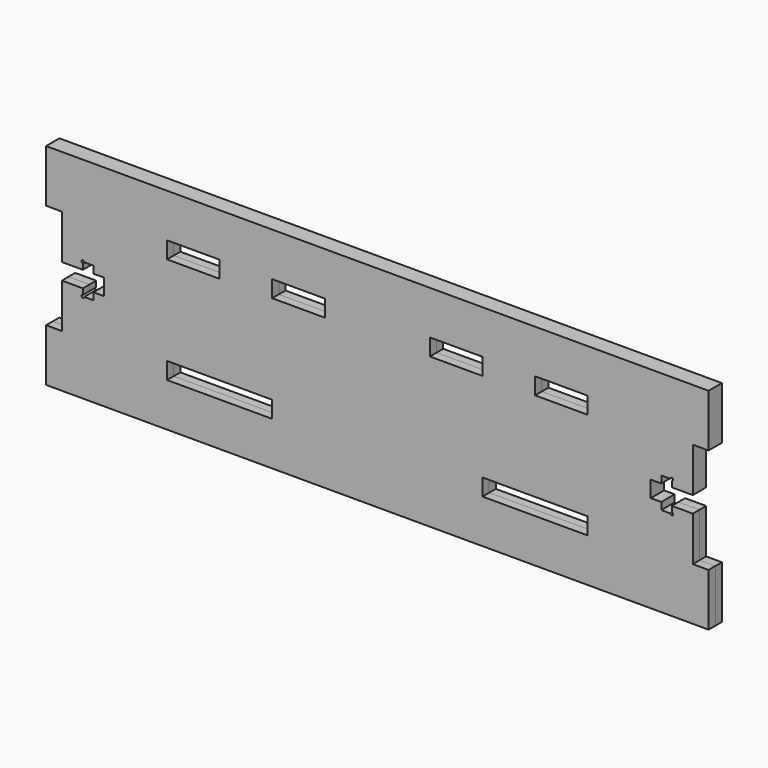
from build123d import *

# Parameters (mm, degrees)
F0_W     = 20
F0_H     = 3.2
F0_W_2   = 10
F1_DEPTH = 1.585


with BuildPart() as f1:
    # F0 (on Front) → F1 (new body, symmetric)
    with BuildSketch(Plane.XZ):
        with BuildLine():
            Line((63, 20), (0, 20))
            Line((0, 20), (-63, 20))
            Line((-63, 20), (-63, 10))
            Line((-63, 10), (-60, 10))
            Line((-60, 10), (-60, 1.55))
            Line((-60, 1.55), (-56, 1.55))
            Line((-56, 1.55), (-56, 2.65))
            ThreePointArc((-56, 2.65), (-56.1767766953, 3.0767766953), (-55.75, 2.9))
            Line((-55.75, 2.9), (-54, 2.9))
            Line((-54, 2.9), (-54, 1.55))
            Line((-54, 1.55), (-52, 1.55))
            Line((-52, 1.55), (-52, 0))
            Line((-52, 0), (-52, -1.55))
            Line((-52, -1.55), (-54, -1.55))
            Line((-54, -1.55), (-54, -2.9))
            Line((-54, -2.9), (-55.75, -2.9))
            ThreePointArc((-55.75, -2.9), (-56.1767766953, -3.0767766953), (-56, -2.65))
            Line((-56, -2.65), (-56, -1.55))
            Line((-56, -1.55), (-60, -1.55))
            Line((-60, -1.55), (-60, -10))
            Line((-60, -10), (-63, -10))
            Line((-63, -10), (-63, -20))
            Line((-63, -20), (0, -20))
            Line((0, -20), (63, -20))
            Line((63, -20), (63, -10))
            Line((63, -10), (60, -10))
            Line((60, -10), (60, -1.55))
            Line((60, -1.55), (56, -1.55))
            Line((56, -1.55), (56, -2.65))
            ThreePointArc((56, -2.65), (56.1767766953, -2.7232233047), (56.25, -2.9))
            ThreePointArc((56.25, -2.9), (56, -3.15), (55.75, -2.9))
            Line((55.75, -2.9), (54, -2.9))
            Line((54, -2.9), (54, -1.55))
            Line((54, -1.55), (52, -1.55))
            Line((52, -1.55), (52, 0))
            Line((52, 0), (52, 1.55))
            Line((52, 1.55), (54, 1.55))
            Line((54, 1.55), (54, 2.9))
            Line((54, 2.9), (55.75, 2.9))
            ThreePointArc((55.75, 2.9), (56, 3.15), (56.25, 2.9))
            ThreePointArc((56.25, 2.9), (56.1767766953, 2.7232233047), (56, 2.65))
            Line((56, 2.65), (56, 1.55))
            Line((56, 1.55), (60, 1.55))
            Line((60, 1.55), (60, 10))
            Line((60, 10), (63, 10))
            Line((63, 10), (63, 20))
        make_face()
        with Locations((-30, -10.1)):
            Rectangle(F0_W, F0_H, mode=Mode.SUBTRACT)
        with Locations((30, -10.1)):
            Rectangle(F0_W, F0_H, mode=Mode.SUBTRACT)
        with Locations((-35, 10.1)):
            Rectangle(F0_W_2, F0_H, mode=Mode.SUBTRACT)
        with Locations((-15, 10.1)):
            Rectangle(F0_W_2, F0_H, mode=Mode.SUBTRACT)
        with Locations((15, 10.1)):
            Rectangle(F0_W_2, F0_H, mode=Mode.SUBTRACT)
        with Locations((35, 10.1)):
            Rectangle(F0_W_2, F0_H, mode=Mode.SUBTRACT)
    extrude(amount=F1_DEPTH, both=True)


solid = f1.part
